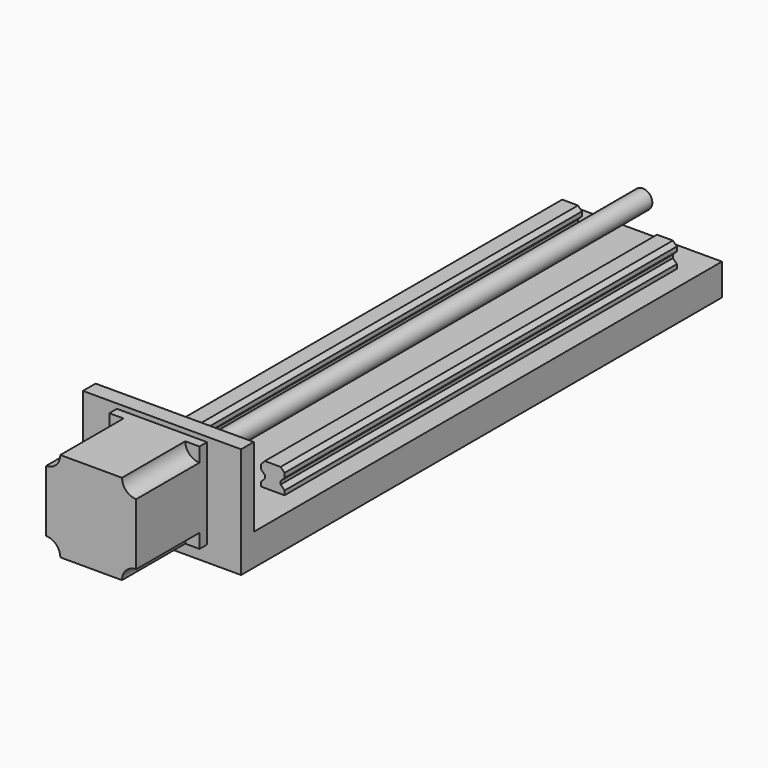
from build123d import *

# Parameters (mm, degrees)
SKETCH_W        = 100
SKETCH_H        = 20
PAD_DEPTH       = 370
SKETCH001_W     = 100
SKETCH001_H     = 70
PAD001_DEPTH    = 10
SKETCH002_W     = 57
SKETCH002_H     = 57
PAD002_DEPTH    = 56
SKETCH003_W     = 15
SKETCH003_H     = 310
PAD003_DEPTH    = 15
SKETCH004_R     = 6
PAD004_DEPTH    = 370
SKETCH005_R     = 4
POCKET_DEPTH    = 15
POCKET001_DEPTH = 50
POCKET002_DEPTH = 310


with BuildPart() as part:
    # Sketch → Pad (new body)
    with BuildSketch(Plane.XZ):
        Rectangle(SKETCH_W, SKETCH_H)
    extrude(amount=PAD_DEPTH)

    # Sketch001 (on Face6 of Pad) → Pad001 (join)
    with BuildSketch(Plane.XZ.offset(370)):
        with Locations((0, 25)):
            Rectangle(SKETCH001_W, SKETCH001_H)
    extrude(amount=PAD001_DEPTH)

    # Sketch002 (on Face11 of Pad001) → Pad002 (join)
    with BuildSketch(Plane.XZ.offset(380)):
        with Locations((0, 28.5)):
            Rectangle(SKETCH002_W, SKETCH002_H)
    extrude(amount=PAD002_DEPTH)

    # Sketch003 (on Face1 of Pad002) → Pad003 (join)
    with BuildSketch(Plane(origin=(0, 0, 10), x_dir=(-1, 0, 0), z_dir=(0, 0, 1))):
        with Locations((-30, 175)):
            Rectangle(SKETCH003_W, SKETCH003_H)
        with Locations((30, 175)):
            Rectangle(SKETCH003_W, SKETCH003_H)
    extrude(amount=PAD003_DEPTH)

    # Sketch004 (on Face4 of Pad003) → Pad004 (join)
    with BuildSketch(Plane(origin=(0, -370, 0), x_dir=(1, 0, 0), z_dir=(0, 1, 0))):
        with Locations((0, -28.5)):
            Circle(SKETCH004_R)
    extrude(amount=PAD004_DEPTH)

    # Sketch005 (on Face14 of Pad004) → Pocket (cut)
    with BuildSketch(Plane(origin=(0, 0, -10), x_dir=(1, 0, 0), z_dir=(0, 0, -1))):
        with Locations((-25, 10)):
            Circle(SKETCH005_R)
        with Locations((25, 10)):
            Circle(SKETCH005_R)
        with Locations((25, 35)):
            Circle(SKETCH005_R)
        with Locations((-25, 35)):
            Circle(SKETCH005_R)
        with Locations((-25, 93)):
            Circle(SKETCH005_R)
        with Locations((-25, 68)):
            Circle(SKETCH005_R)
        with Locations((25, 93)):
            Circle(SKETCH005_R)
        with Locations((25, 68)):
            Circle(SKETCH005_R)
    extrude(amount=-POCKET_DEPTH, mode=Mode.SUBTRACT)

    # Sketch006 (on Face44 of Pocket) → Pocket001 (cut)
    with BuildSketch(Plane.XZ.offset(436)):
        with BuildLine():
            ThreePointArc((-28.5, 48), (-22.136039, 50.636039), (-19.5, 57))
            Line((-19.5, 57), (-28.5, 57))
            Line((-28.5, 57), (-28.5, 48))
        make_face()
        with BuildLine():
            ThreePointArc((19.5, 57), (22.136039, 50.636039), (28.5, 48))
            Line((28.5, 48), (28.5, 57))
            Line((28.5, 57), (19.5, 57))
        make_face()
        with BuildLine():
            ThreePointArc((28.5, 9), (22.136039, 6.363961), (19.5, 0))
            Line((28.5, 0), (19.5, 0))
            Line((28.5, 0), (28.5, 9))
        make_face()
        with BuildLine():
            ThreePointArc((-19.5, 0), (-22.136039, 6.363961), (-28.5, 9))
            Line((-28.5, 9), (-28.5, 0))
            Line((-19.5, 0), (-28.5, 0))
        make_face()
    extrude(amount=-POCKET001_DEPTH, mode=Mode.SUBTRACT)

    # Sketch007 (on Face7 of Pocket001) → Pocket002 (cut)
    with BuildSketch(Plane(origin=(0, -20, 0), x_dir=(1, 0, 0), z_dir=(0, 1, 0))):
        Polygon((-37.5, -22.5), (-35, -25), (-37.5, -25), align=None)
        Polygon((-37.5, -19.7), (-35, -17.2), (-35, -15.2), (-37.5, -12.7), align=None)
        Polygon((22.5, -22.5), (25, -25), (22.5, -25), align=None)
        Polygon((22.5, -19.7), (25, -17.2), (25, -15.2), (22.5, -12.7), align=None)
        Polygon((-22.5, -22.5), (-25, -25), (-22.5, -25), align=None)
        Polygon((-22.5, -19.7), (-25, -17.2), (-25, -15.2), (-22.5, -12.7), align=None)
        Polygon((37.5, -22.5), (35, -25), (37.5, -25), align=None)
        Polygon((37.5, -19.7), (35, -17.2), (35, -15.2), (37.5, -12.7), align=None)
    extrude(amount=-POCKET002_DEPTH, mode=Mode.SUBTRACT)


solid = part.part
